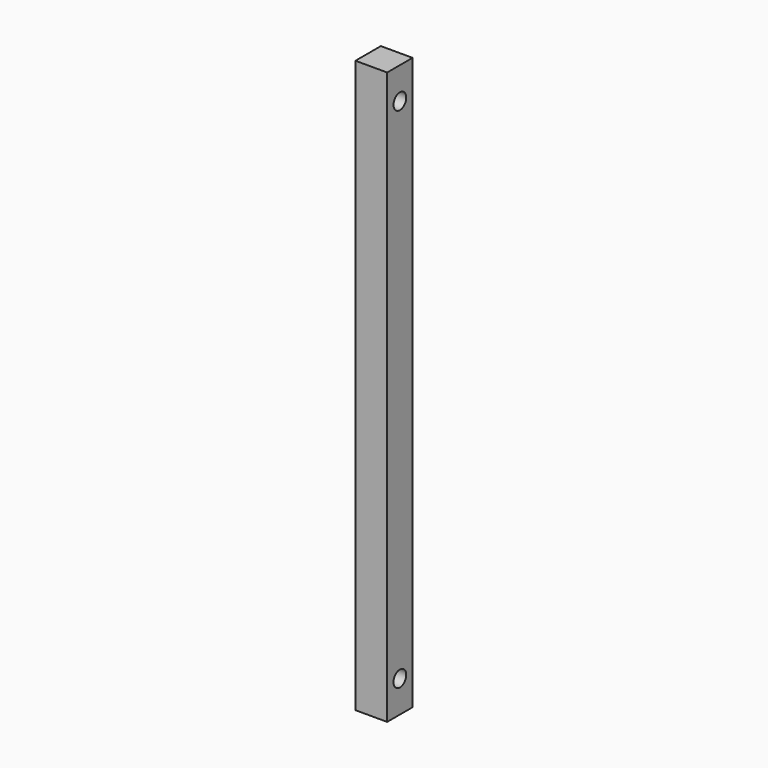
from build123d import *

# Parameters (mm, degrees)
F0_W     = 50.8
F0_H     = 914.4
F1_DEPTH = 50.8
F2_D     = 25.4


with BuildPart() as f1:
    # F0 (on Right) → F1 (new body)
    with BuildSketch(Plane.YZ):
        Rectangle(F0_W, F0_H)
    extrude(amount=F1_DEPTH)

    # F2 (through all)
    with Locations(Plane(origin=(0, 0, 0), x_dir=(0, 1, 0), z_dir=(-1, 0, 0))):
        with Locations((0, 406.4), (0, -406.4)):
            Hole(F2_D / 2)


solid = f1.part
